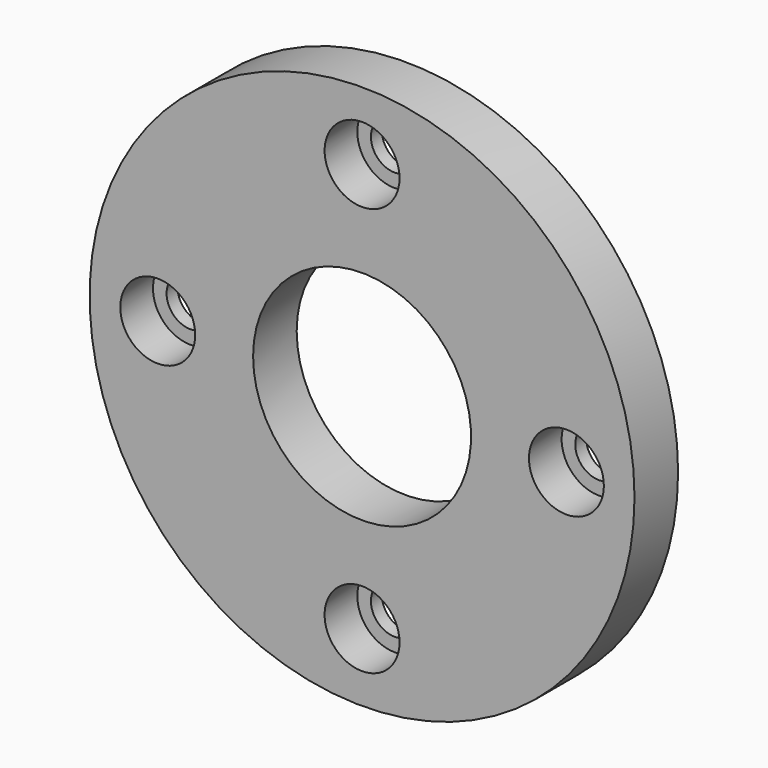
from build123d import *

# Parameters (mm, degrees)
F0_R           = 20
F1_DEPTH       = 2
F3_D           = 3.5
F3_CBORE_D     = 5.5
F3_CBORE_DEPTH = 3
F4_D           = 16


with BuildPart() as f1:
    # F0 (on Front) → F1 (new body, symmetric)
    with BuildSketch(Plane.XZ):
        Circle(F0_R)
    extrude(amount=F1_DEPTH, both=True)

    # F3 (through all)
    with Locations(Plane.XZ.offset(2)):
        with Locations((0, 15), (-15, 0), (0, -15), (15, 0)):
            CounterBoreHole(F3_D / 2, F3_CBORE_D / 2, F3_CBORE_DEPTH)

    # F4 (through all)
    with Locations(Plane.XZ.offset(2)):
        with Locations((0, 0)):
            Hole(F4_D / 2)


solid = f1.part
